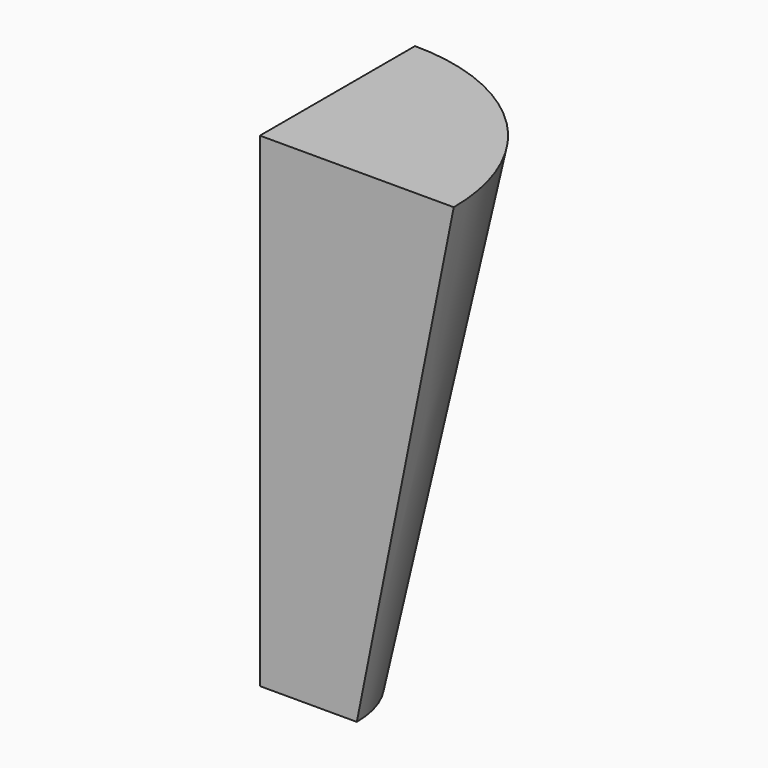
from build123d import *

# Parameters (mm, degrees)
BOX001_W     = 10
BOX001_H     = 10
BOX001_DEPTH = 10


with BuildPart() as cube001:
    # Box001 → Box001 (new body)
    with BuildSketch(Plane.XY):
        with Locations((5, 5)):
            Rectangle(BOX001_W, BOX001_H)
    extrude(amount=BOX001_DEPTH)


with BuildPart() as common001:
    # Cone → Cone (revolve)
    with BuildSketch(Plane.XZ):
        Polygon((0, 0), (2, 0), (4, 10), (0, 10), align=None)
    revolve(axis=Axis((0, 0, 0), (0, 0, 1)))

    # Common001: intersect Cube001
    add(cube001.part, mode=Mode.INTERSECT)


with BuildPart() as common001_1:
    # Common001 placement: moved
    add(common001.part.moved(Location((8, 0, 0))))


solid = common001_1.part
